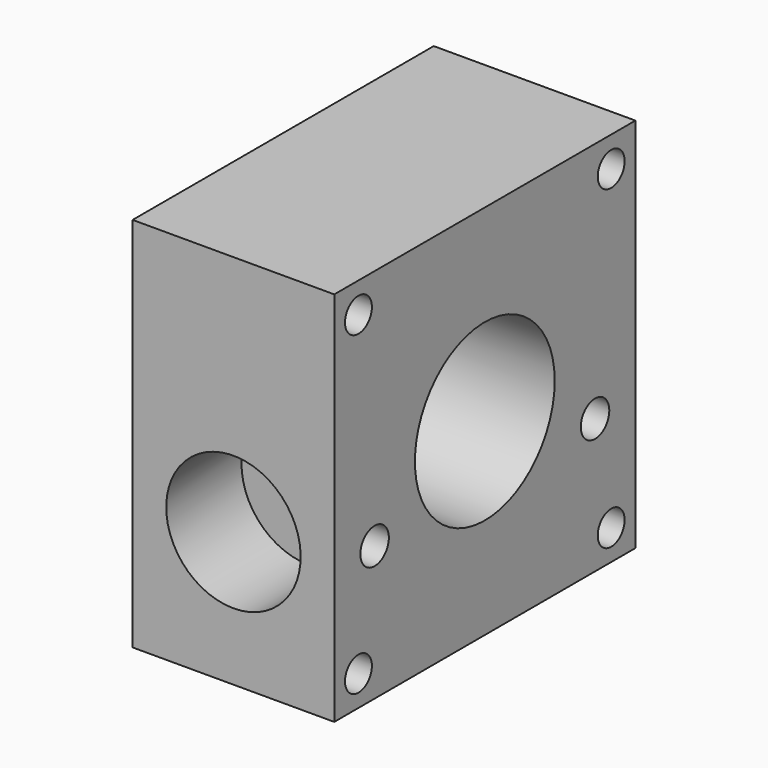
from build123d import *

# Parameters (mm, degrees)
SKETCH067_W     = 56
SKETCH067_H     = 56
SKETCH067_R     = 2.5
SKETCH067_R_2   = 13
PAD053_DEPTH    = 30
SKETCH068_R     = 10
POCKET007_DEPTH = 14
SKETCH069_R     = 2.65
POCKET008_DEPTH = 7
SKETCH070_R     = 10
POCKET009_DEPTH = 14
SKETCH071_R     = 20
POCKET010_DEPTH = 1.6


with BuildPart() as part:
    # Sketch067 → Pad053 (new body)
    with BuildSketch(Plane.YZ):
        Rectangle(SKETCH067_W, SKETCH067_H)
        with Locations((-23.5, 23.5)):
            Circle(SKETCH067_R, mode=Mode.SUBTRACT)
        with Locations((23.5, 23.5)):
            Circle(SKETCH067_R, mode=Mode.SUBTRACT)
        with Locations((23.5, -23.5)):
            Circle(SKETCH067_R, mode=Mode.SUBTRACT)
        with Locations((-23.5, -23.5)):
            Circle(SKETCH067_R, mode=Mode.SUBTRACT)
        Circle(SKETCH067_R_2, mode=Mode.SUBTRACT)
    extrude(amount=PAD053_DEPTH)

    # Sketch068 (on Face4 of Pad053) → Pocket007 (cut)
    with BuildSketch(Plane(origin=(0, -28, 0), x_dir=(0, 0, -1), z_dir=(0, -1, 0))):
        with Locations((8, 15)):
            Circle(SKETCH068_R)
    extrude(amount=-POCKET007_DEPTH, mode=Mode.SUBTRACT)

    # Sketch069 (on Face5 of Pocket007) → Pocket008 (cut)
    with BuildSketch(Plane.YZ.offset(30)):
        with Locations((-20.5, -8)):
            Circle(SKETCH069_R)
        with Locations((20.5, -8)):
            Circle(SKETCH069_R)
    extrude(amount=-POCKET008_DEPTH, mode=Mode.SUBTRACT)

    # Sketch070 (on Face3 of Pocket008) → Pocket009 (cut)
    with BuildSketch(Plane.ZX.offset(28)):
        with Locations((-8, 15)):
            Circle(SKETCH070_R)
    extrude(amount=-POCKET009_DEPTH, mode=Mode.SUBTRACT)

    # Sketch071 (on Face4 of Pocket009) → Pocket010 (cut)
    with BuildSketch(Plane(origin=(0, 0, 0), x_dir=(0, 1, 0), z_dir=(-1, 0, 0))):
        Circle(SKETCH071_R)
    extrude(amount=-POCKET010_DEPTH, mode=Mode.SUBTRACT)


with BuildPart() as part_1:
    # Body040 placement: moved
    add(part.part.moved(Location((-15, 0, 8))))


solid = part_1.part
